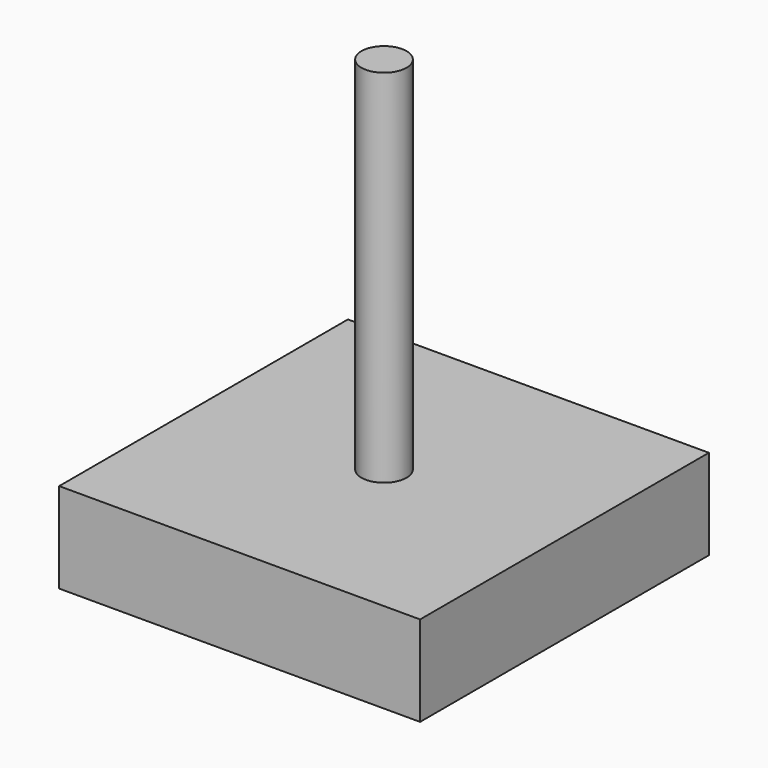
from build123d import *

# Parameters (mm, degrees)
F0_W     = 50.8
F0_H     = 50.8
F1_DEPTH = 12.7
F2_R     = 3.175
F3_DEPTH = 50.8


with BuildPart() as f1:
    # F0 (on Top) → F1 (new body)
    with BuildSketch(Plane.XY):
        Rectangle(F0_W, F0_H)
    extrude(amount=F1_DEPTH)


with BuildPart() as f3:
    # F2 (on face) → F3 (new body)
    with BuildSketch(Plane.XY.offset(12.7)):
        Circle(F2_R)
    extrude(amount=F3_DEPTH)


solid = Compound([f1.part, f3.part])
